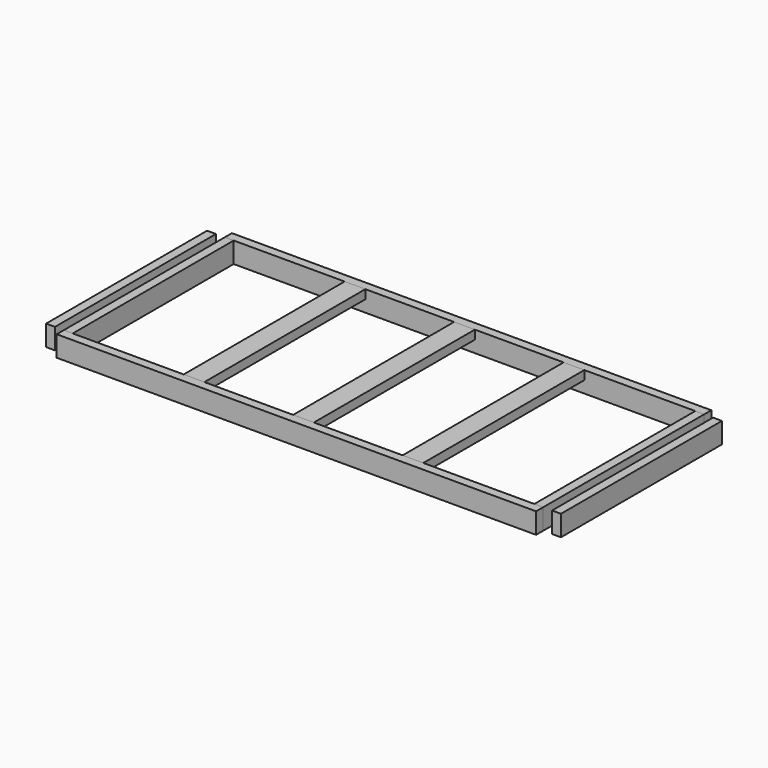
from build123d import *

# Parameters (mm, degrees)
F0_W      = 88.9
F0_H      = 863.6
F4_DEPTH  = 38.1
F2_W      = 88.9
F2_H      = 863.6
F3_W      = 88.9
F3_H      = 863.6
F10_W     = 2057.4
F10_H     = 38.1
F11_DEPTH = 88.9
F9_W      = 2057.4
F9_H      = 38.1
F8_W      = 38.1
F8_H      = 863.6
F7_W      = 38.1
F7_H      = 863.6
F6_W      = 38.1
F6_H      = 863.6
F5_W      = 38.1
F5_H      = 863.6


with BuildPart() as f4:
    # F0 (on Top) → F4 (new body)
    with BuildSketch(Plane.XY):
        Rectangle(F0_W, F0_H)
    extrude(amount=-F4_DEPTH)


with BuildPart() as f4b:
    # F2 (on Top) → F4, piece 2 (new body)
    with BuildSketch(Plane.XY):
        with Locations((-469.9, 0)):
            Rectangle(F2_W, F2_H)
    extrude(amount=-F4_DEPTH)


with BuildPart() as f4c:
    # F3 (on Top) → F4, piece 3 (new body)
    with BuildSketch(Plane.XY):
        with Locations((469.9, 0)):
            Rectangle(F3_W, F3_H)
    extrude(amount=-F4_DEPTH)


with BuildPart() as f11:
    # F10 (on Top) → F11 (new body)
    with BuildSketch(Plane.XY):
        with Locations((0, -450.85)):
            Rectangle(F10_W, F10_H)
    extrude(amount=-F11_DEPTH)


with BuildPart() as f11b:
    # F9 (on Top) → F11, piece 2 (new body)
    with BuildSketch(Plane.XY):
        with Locations((0, 450.85)):
            Rectangle(F9_W, F9_H)
    extrude(amount=-F11_DEPTH)


with BuildPart() as f11c:
    # F8 (on Top) → F11, piece 3 (new body)
    with BuildSketch(Plane.XY):
        with Locations((1085.85, 0)):
            Rectangle(F8_W, F8_H)
    extrude(amount=-F11_DEPTH)


with BuildPart() as f11d:
    # F7 (on Top) → F11, piece 4 (new body)
    with BuildSketch(Plane.XY):
        with Locations((1009.65, 0)):
            Rectangle(F7_W, F7_H)
    extrude(amount=-F11_DEPTH)


with BuildPart() as f11e:
    # F6 (on Top) → F11, piece 5 (new body)
    with BuildSketch(Plane.XY):
        with Locations((-1085.85, 0)):
            Rectangle(F6_W, F6_H)
    extrude(amount=-F11_DEPTH)


with BuildPart() as f11f:
    # F5 (on Top) → F11, piece 6 (new body)
    with BuildSketch(Plane.XY):
        with Locations((-1009.65, 0)):
            Rectangle(F5_W, F5_H)
    extrude(amount=-F11_DEPTH)


solid = Compound([f4.part, f4b.part, f4c.part, f11.part, f11b.part, f11c.part, f11d.part, f11e.part, f11f.part])
